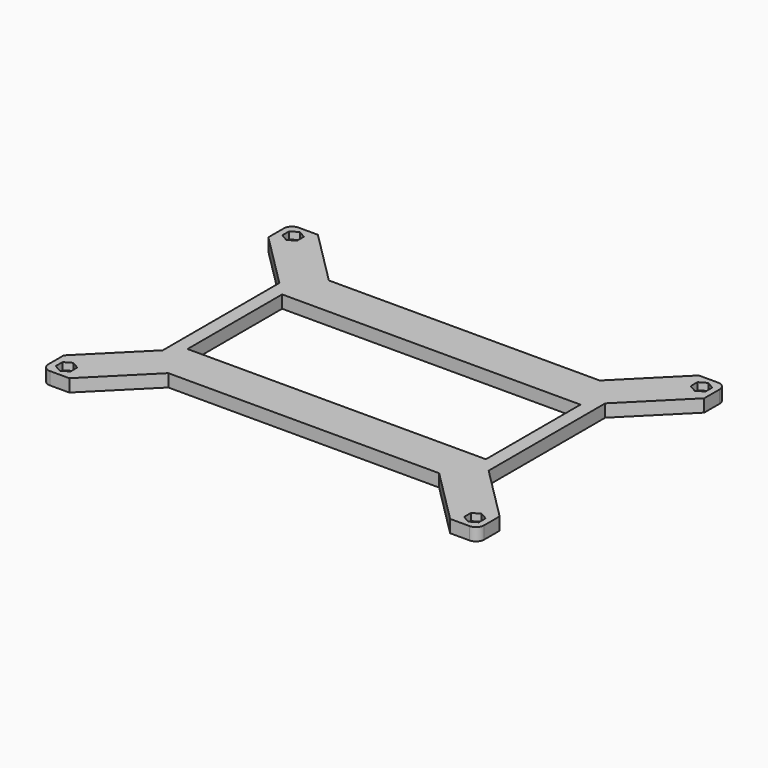
from build123d import *

# Parameters (mm, degrees)
SKETCH_R     = 1.15
SKETCH_W     = 108.5
SKETCH_H     = 43
PAD_DEPTH    = 4.6
FILLET_R     = 3
POCKET_DEPTH = 2.6


with BuildPart() as part:
    # Sketch → Pad (new body)
    with BuildSketch(Plane.XY):
        Polygon((-69.25, 56.5), (-79.25, 56.5), (-79.25, 46.5), (-59.25, 26.5), (-59.25, -26.5), (-79.25, -46.5), (-79.25, -56.5), (-69.25, -56.5), (-49.25, -36.5), (49.25, -36.5), (69.25, -56.5), (79.25, -56.5), (79.25, -46.5), (59.25, -26.5), (59.25, 26.5), (79.25, 46.5), (79.25, 56.5), (69.25, 56.5), (49.25, 36.5), (-49.25, 36.5), align=None)
        with Locations((-74.25, 51.5)):
            Circle(SKETCH_R, mode=Mode.SUBTRACT)
        with Locations((74.25, 51.5)):
            Circle(SKETCH_R, mode=Mode.SUBTRACT)
        with Locations((-74.25, -51.5)):
            Circle(SKETCH_R, mode=Mode.SUBTRACT)
        with Locations((74.25, -51.5)):
            Circle(SKETCH_R, mode=Mode.SUBTRACT)
        Rectangle(SKETCH_W, SKETCH_H, mode=Mode.SUBTRACT)
    extrude(amount=PAD_DEPTH)

    # Fillet
    fillet_edges = [part.edges().sort_by_distance(p)[0] for p in [
        (79.25, -56.5, 2.3),
        (79.25, 56.5, 2.3),
        (-79.25, 56.5, 2.3),
        (-79.25, -56.5, 2.3),
    ]]
    fillet(fillet_edges, radius=FILLET_R)

    # Sketch001 (on Face5 of Fillet) → Pocket (cut)
    with BuildSketch(Plane.XY.offset(4.6)):
        Polygon((-71.565321, 49.95), (-71.565321, 53.05), (-74.25, 54.6), (-76.934679, 53.05), (-76.934679, 49.95), (-74.25, 48.4), align=None)
        Polygon((-71.565321, -53.05), (-71.565321, -49.95), (-74.25, -48.4), (-76.934679, -49.95), (-76.934679, -53.05), (-74.25, -54.6), align=None)
        Polygon((76.934679, -53.05), (76.934679, -49.95), (74.25, -48.4), (71.565321, -49.95), (71.565321, -53.05), (74.25, -54.6), align=None)
        Polygon((76.934679, 49.95), (76.934679, 53.05), (74.25, 54.6), (71.565321, 53.05), (71.565321, 49.95), (74.25, 48.4), align=None)
    extrude(amount=-POCKET_DEPTH, mode=Mode.SUBTRACT)


solid = part.part
